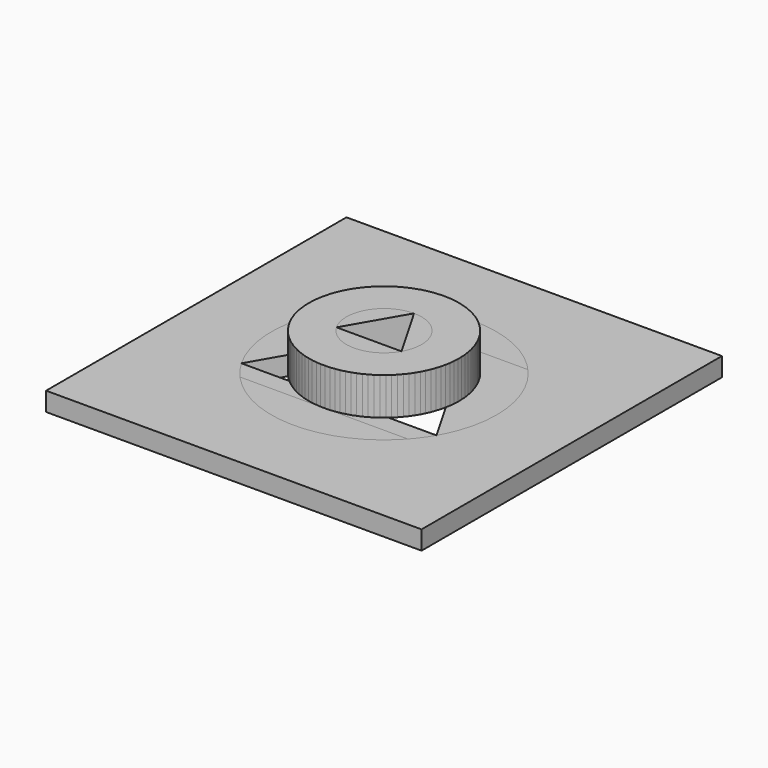
from build123d import *

# Parameters (mm, degrees)
PAD_DEPTH           = 10
BOX003_W            = 100
BOX003_H            = 100
BOX003_DEPTH        = 5
PAD002_DEPTH        = 10
BOX002_W            = 100
BOX002_H            = 100
BOX002_DEPTH        = 5
SKETCH003_W         = 60
SKETCH003_H         = 40
PAD003_DEPTH        = 10
BOX001_W            = 100
BOX001_H            = 100
BOX001_DEPTH        = 5
SKETCH004_R         = 30
PAD004_DEPTH        = 10
BOX_W               = 100
BOX_H               = 100
BOX_DEPTH           = 5
SKETCH005_R         = 20
SKETCH005_R_2       = 10
PAD005_DEPTH        = 10
PAD006_DEPTH        = 10
SKETCH007_R         = 20
SKETCH007_R_2       = 10
PAD007_DEPTH        = 10
BODY007_PITCH_ANGLE = 90


with BuildPart() as body:
    # Sketch → Pad (new body)
    with BuildSketch(Plane.XY):
        with BuildLine():
            Line((20, -30), (-20, -30))
            ThreePointArc((-37.320508, 0), (-37.320508, -20), (-20, -30))
            Line((-37.320508, 0), (-17.320508, 34.641016))
            ThreePointArc((17.320508, 34.641016), (0, 44.641016), (-17.320508, 34.641016))
            Line((17.320508, 34.641016), (37.320508, 0))
            ThreePointArc((20, -30), (37.320508, -20), (37.320508, 0))
        make_face()
    extrude(amount=-PAD_DEPTH)


with BuildPart() as shape_cut:
    # Box003 → Box003 (new body)
    with BuildSketch(Plane(origin=(-50, -50, -5), x_dir=(1, 0, 0), z_dir=(0, 0, 1))):
        with Locations((50, 50)):
            Rectangle(BOX003_W, BOX003_H)
    extrude(amount=BOX003_DEPTH)

    # Cut003: cut Body
    add(body.part, mode=Mode.SUBTRACT)


with BuildPart() as body002:
    # Sketch002 → Pad002 (new body)
    with BuildSketch(Plane.XY):
        Polygon((0, 30), (-25.980762, -15), (25.980762, -15), align=None)
    extrude(amount=-PAD002_DEPTH)


with BuildPart() as triangle_cut:
    # Box002 → Box002 (new body)
    with BuildSketch(Plane(origin=(-50, -50, -5), x_dir=(1, 0, 0), z_dir=(0, 0, 1))):
        with Locations((50, 50)):
            Rectangle(BOX002_W, BOX002_H)
    extrude(amount=BOX002_DEPTH)

    # Cut004: cut Body002
    add(body002.part, mode=Mode.SUBTRACT)


with BuildPart() as body003:
    # Sketch003 → Pad003 (new body)
    with BuildSketch(Plane.XY):
        Rectangle(SKETCH003_W, SKETCH003_H)
    extrude(amount=-PAD003_DEPTH)


with BuildPart() as square_cut:
    # Box001 → Box001 (new body)
    with BuildSketch(Plane(origin=(-50, -50, -5), x_dir=(1, 0, 0), z_dir=(0, 0, 1))):
        with Locations((50, 50)):
            Rectangle(BOX001_W, BOX001_H)
    extrude(amount=BOX001_DEPTH)

    # Cut005: cut Body003
    add(body003.part, mode=Mode.SUBTRACT)


with BuildPart() as body004:
    # Sketch004 → Pad004 (new body)
    with BuildSketch(Plane.XY):
        Circle(SKETCH004_R)
    extrude(amount=-PAD004_DEPTH)


with BuildPart() as circle_cut:
    # Box → Box (new body)
    with BuildSketch(Plane(origin=(-50, -50, -5), x_dir=(1, 0, 0), z_dir=(0, 0, 1))):
        with Locations((50, 50)):
            Rectangle(BOX_W, BOX_H)
    extrude(amount=BOX_DEPTH)

    # Cut: cut Body004
    add(body004.part, mode=Mode.SUBTRACT)


with BuildPart() as offset_circle:
    # Sketch005 → Pad005 (new body)
    with BuildSketch(Plane.XY):
        Circle(SKETCH005_R)
        Circle(SKETCH005_R_2, mode=Mode.SUBTRACT)
    extrude(amount=PAD005_DEPTH)


with BuildPart() as offset_edge:
    # Sketch006 → Pad006 (new body)
    with BuildSketch(Plane.XY):
        Polygon((0, 20), (-17.320508, -10), (17.320508, -10), align=None)
        Polygon((0, 10), (-8.660254, -5), (8.660254, -5), align=None, mode=Mode.SUBTRACT)
    extrude(amount=PAD006_DEPTH)


with BuildPart() as offset_placement:
    # Sketch007 → Pad007 (new body)
    with BuildSketch(Plane.YZ.offset(11)):
        with Locations((9, 7)):
            Circle(SKETCH007_R)
        with Locations((9, 7)):
            Circle(SKETCH007_R_2, mode=Mode.SUBTRACT)
    extrude(amount=PAD007_DEPTH)


with BuildPart() as offset_placement_1:
    # Body007 pitch: moved
    add(offset_placement.part.rotate(Axis((0, 0, 0), (0, 1, 0)), BODY007_PITCH_ANGLE))


with BuildPart() as offset_placement_2:
    # Body007 placement: moved
    add(offset_placement_1.part.moved(Location((-7, -9, 21))))


solid = Compound([shape_cut.part, triangle_cut.part, square_cut.part, circle_cut.part, offset_circle.part, offset_edge.part, offset_placement_2.part])
